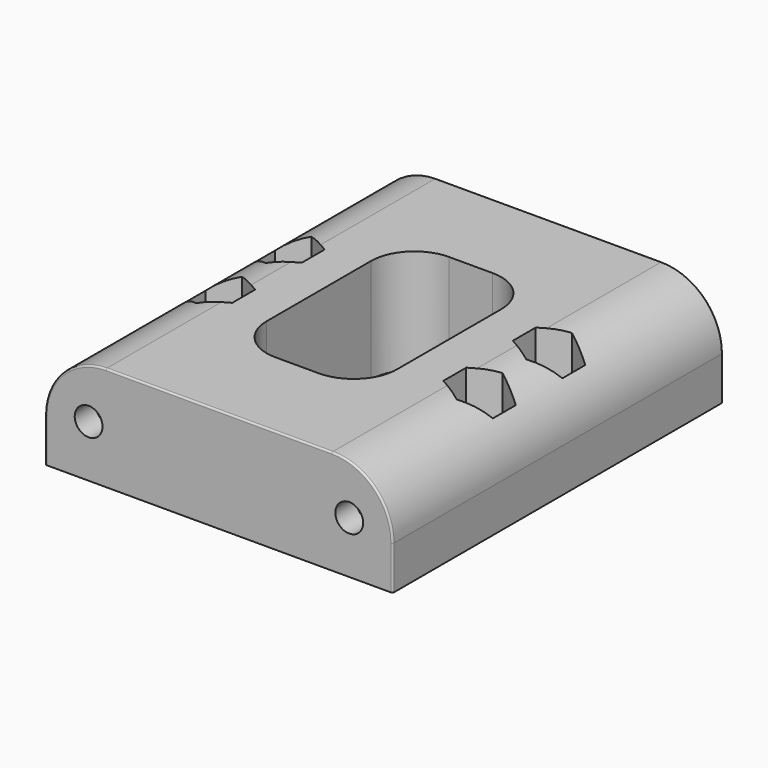
from build123d import *

# Parameters (mm, degrees)
SKETCH_W        = 40
SKETCH_H        = 47.5
PAD_DEPTH       = 12
SKETCH001_R     = 1.6
POCKET_DEPTH    = 8
SKETCH002_R     = 1.6
POCKET001_DEPTH = 8
SKETCH003_W     = 5.8
SKETCH003_H     = 3
POCKET002_DEPTH = 12
SKETCH004_R     = 1.6
POCKET003_DEPTH = 12
POCKET004_DEPTH = 9
POCKET005_DEPTH = 12
POCKET006_DEPTH = 50
FILLET_R        = 0.2


with BuildPart() as part:
    # Sketch → Pad (new body)
    with BuildSketch(Plane.XY):
        Rectangle(SKETCH_W, SKETCH_H)
    extrude(amount=PAD_DEPTH)

    # Sketch001 (on Face3 of Pad) → Pocket (cut)
    with BuildSketch(Plane.XZ.offset(23.75)):
        with Locations((-15, 6)):
            Circle(SKETCH001_R)
        with Locations((15, 6)):
            Circle(SKETCH001_R)
    extrude(amount=-POCKET_DEPTH, mode=Mode.SUBTRACT)

    # Sketch002 (on Face1 of Pocket) → Pocket001 (cut)
    with BuildSketch(Plane(origin=(0, 23.75, 0), x_dir=(-1, 0, 0), z_dir=(0, 1, 0))):
        with Locations((-15, 6)):
            Circle(SKETCH002_R)
        with Locations((15, 6)):
            Circle(SKETCH002_R)
    extrude(amount=-POCKET001_DEPTH, mode=Mode.SUBTRACT)

    # Sketch003 (on Face4 of Pocket001) → Pocket002 (cut)
    with BuildSketch(Plane.XY.offset(9.5)):
        with Locations((-15, 19.25)):
            Rectangle(SKETCH003_W, SKETCH003_H)
        with Locations((15, 19.25)):
            Rectangle(SKETCH003_W, SKETCH003_H)
        with Locations((-15, -19.25)):
            Rectangle(SKETCH003_W, SKETCH003_H)
        with Locations((15, -19.25)):
            Rectangle(SKETCH003_W, SKETCH003_H)
    extrude(amount=-POCKET002_DEPTH, mode=Mode.SUBTRACT)

    # Sketch004 (on Face4 of Pocket002) → Pocket003 (cut)
    with BuildSketch(Plane.XY.offset(12)):
        with Locations((-15, 5)):
            Circle(SKETCH004_R)
        with Locations((15, 5)):
            Circle(SKETCH004_R)
        with Locations((-15, -5)):
            Circle(SKETCH004_R)
        with Locations((15, -5)):
            Circle(SKETCH004_R)
    extrude(amount=-POCKET003_DEPTH, mode=Mode.SUBTRACT)

    # Sketch005 (on Face4 of Pocket003) → Pocket004 (cut)
    with BuildSketch(Plane.XY.offset(12)):
        Polygon((-15, 8.290897), (-17.85, 6.645448), (-17.85, 3.354552), (-15, 1.709103), (-12.15, 3.354552), (-12.15, 6.645448), align=None)
        Polygon((15, 8.290897), (12.15, 6.645448), (12.15, 3.354552), (15, 1.709103), (17.85, 3.354552), (17.85, 6.645448), align=None)
        Polygon((-15, -1.709103), (-17.85, -3.354552), (-17.85, -6.645448), (-15, -8.290897), (-12.15, -6.645448), (-12.15, -3.354552), align=None)
        Polygon((15, -1.709103), (12.15, -3.354552), (12.15, -6.645448), (15, -8.290897), (17.85, -6.645448), (17.85, -3.354552), align=None)
    extrude(amount=-POCKET004_DEPTH, mode=Mode.SUBTRACT)

    # Sketch006 → Pocket005 (cut)
    with BuildSketch(Plane.XY.offset(12)):
        with BuildLine():
            Line((-2.5, 12.5), (2.5, 12.5))
            ThreePointArc((7.5, 7.5), (6.035534, 11.035534), (2.5, 12.5))
            Line((7.5, 7.5), (7.5, -7.5))
            ThreePointArc((2.5, -12.5), (6.035534, -11.035534), (7.5, -7.5))
            Line((2.5, -12.5), (-2.5, -12.5))
            ThreePointArc((-7.5, -7.5), (-6.035534, -11.035534), (-2.5, -12.5))
            Line((-7.5, -7.5), (-7.5, 7.5))
            ThreePointArc((-2.5, 12.5), (-6.035534, 11.035534), (-7.5, 7.5))
        make_face()
    extrude(amount=-POCKET005_DEPTH, mode=Mode.SUBTRACT)

    # Sketch009 (on Face8 of Pocket005) → Pocket006 (cut)
    with BuildSketch(Plane.XZ.offset(23.75)):
        with BuildLine():
            ThreePointArc((-13, 12), (-17.949747, 9.949747), (-20, 5))
            Line((-20, 5), (-20, 13))
            Line((-20, 13), (20, 13))
            Line((20, 13), (20, 5))
            ThreePointArc((20, 5), (17.949747, 9.949747), (13, 12))
            Line((13, 12), (-13, 12))
        make_face()
    extrude(amount=-POCKET006_DEPTH, mode=Mode.SUBTRACT)

    # Fillet
    fillet_edges = [part.edges().sort_by_distance(p)[0] for p in [
        (20, -23.75, 2.5),
        (-20, -23.75, 2.5),
        (20, 23.75, 2.5),
        (-20, 23.75, 2.5),
    ]]
    fillet(fillet_edges, radius=FILLET_R)


solid = part.part
